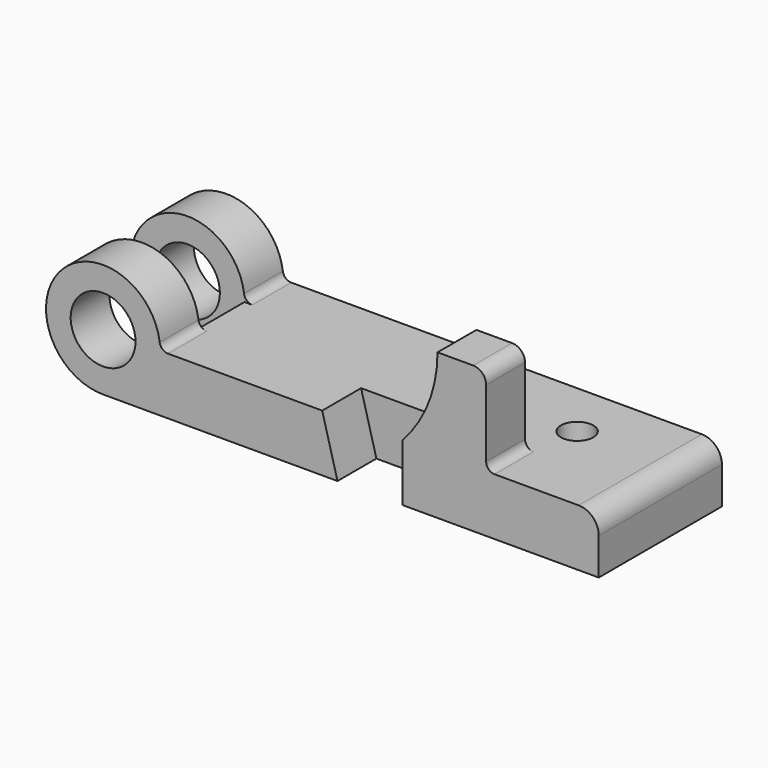
from build123d import *

# Parameters (mm, degrees)
F0_R     = 12.7
F1_DEPTH = 60.325
F3_DEPTH = 19.05
F4_W     = 32.8422
F4_H     = 41.275
F5_DEPTH = 34.798
F7_W     = 44.8917353029
F7_H     = 22.3266
F7_R     = 6.35
F8_DEPTH = 44.704
F9_R     = 3.302
F10_R    = 7.874
F11_R    = 5.08
F12_R    = 3.302


with BuildPart() as f1:
    # F0 (on Front) → F1 (new body)
    with BuildSketch(Plane.XZ):
        with BuildLine():
            ThreePointArc((-77.862515583, -22.352), (-62.0572648099, -15.8052507731), (-55.510515583, 0))
            ThreePointArc((-55.510515583, 0), (-93.6677663561, 15.8052507731), (-77.862515583, -22.352))
        make_face()
        with Locations((-77.862515583, 0)):
            Circle(F0_R, mode=Mode.SUBTRACT)
        with BuildLine():
            Line((39.383884417, 0), (-55.510515583, 0))
            ThreePointArc((-55.510515583, 0), (-62.0572648099, -15.8052507731), (-77.862515583, -22.352))
            Line((-77.862515583, -22.352), (116.345884417, -22.352))
            Line((116.345884417, -22.352), (116.345884417, 0))
            Line((116.345884417, 0), (72.226084417, 0))
            Line((72.226084417, 0), (72.226084417, 34.798))
            Line((72.226084417, 34.798), (53.176084417, 34.798))
            ThreePointArc((53.176084417, 34.798), (49.6018997785, 16.0823576341), (39.383884417, 0))
        make_face()
    extrude(amount=F1_DEPTH)

    # F2 (on face) → F3 (cut)
    with BuildSketch(Plane.XZ.offset(60.325)):
        Polygon((39.383884417, -22.352), (39.383884417, 0), (7.989484417, 0), (13.983884417, -22.352), align=None)
    extrude(amount=-F3_DEPTH, mode=Mode.SUBTRACT)

    # F4 (on face) → F5 (cut)
    with BuildSketch(Plane.XY.offset(34.798)):
        with Locations((55.804984417, -20.6375)):
            Rectangle(F4_W, F4_H)
    extrude(amount=-F5_DEPTH, mode=Mode.SUBTRACT)

    # F7 (on offset) → F8 (cut)
    with BuildSketch(Plane.XY.offset(22.352)):
        with Locations((-77.9563832345, -30.1625)):
            Rectangle(F7_W, F7_H)
        with Locations((77.483884417, -22.352)):
            Circle(F7_R)
    extrude(amount=-F8_DEPTH, mode=Mode.SUBTRACT)

    # F9
    f9_edges = [f1.edges().sort_by_distance(p)[0] for p in [
        (-55.510516, -50.8254, 0),
        (-55.510516, -9.4996, 0),
    ]]
    fillet(f9_edges, radius=F9_R)

    # F10
    f10_edges = [f1.edges().sort_by_distance(p)[0] for p in [
        (116.345884, -30.1625, 0),
    ]]
    fillet(f10_edges, radius=F10_R)

    # F11
    f11_edges = [f1.edges().sort_by_distance(p)[0] for p in [
        (72.226084, -50.8, 34.798),
    ]]
    fillet(f11_edges, radius=F11_R)

    # F12
    f12_edges = [f1.edges().sort_by_distance(p)[0] for p in [
        (72.226084, -50.8, 0),
    ]]
    fillet(f12_edges, radius=F12_R)


solid = f1.part
